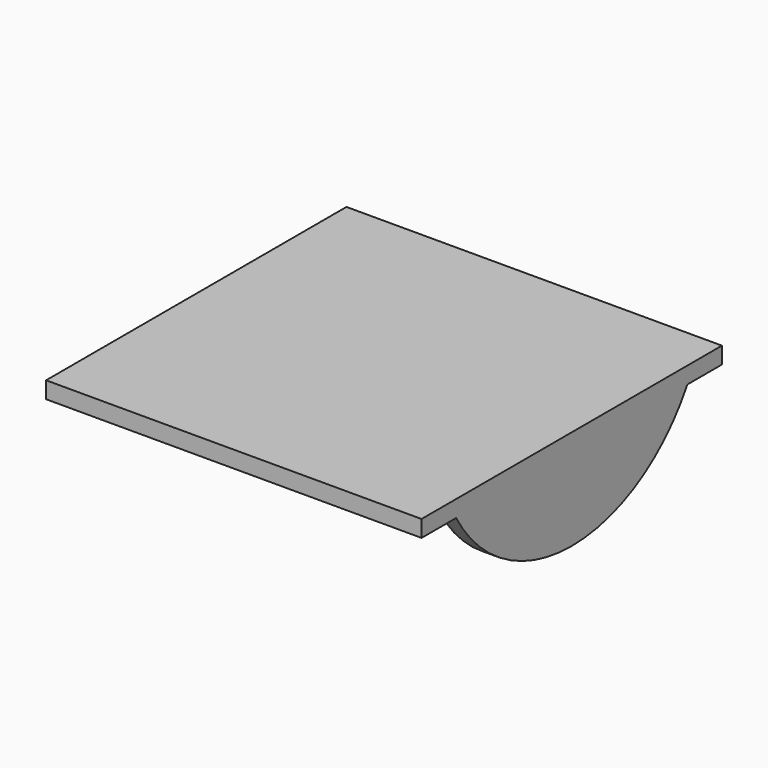
from build123d import *

# Parameters (mm, degrees)
F1_DEPTH = 20
F2_W     = 450
F2_H     = 450
F3_DEPTH = 20
F5_DEPTH = 20


with BuildPart() as f1:
    # F0 (on Right) → F1 (new body)
    with BuildSketch(Plane.YZ):
        with BuildLine():
            Line((173.2050807569, -100), (-173.2050807569, -100))
            ThreePointArc((-173.2050807569, -100), (0, -200), (173.2050807569, -100))
        make_face()
    extrude(amount=-F1_DEPTH)

    # F2 (on face) → F3 (join)
    with BuildSketch(Plane.XY.offset(-100)):
        with Locations((-225, 0)):
            Rectangle(F2_W, F2_H)
        Polygon((0, 225), (-450, 225), (-450, -225), (0, -225), (0, -173.2050807569), (-20, -173.2050807569), (-20, 173.2050807569), (0, 173.2050807569), align=None)
    extrude(amount=F3_DEPTH)

    # F4 (on face) → F5 (join)
    with BuildSketch(Plane(origin=(-450, 0, 0), x_dir=(0, -1, 0), z_dir=(-1, 0, 0))):
        with BuildLine():
            Line((173.2050807569, -100), (-173.2050807569, -100))
            ThreePointArc((-173.2050807569, -100), (0, -200), (173.2050807569, -100))
        make_face()
        with BuildLine():
            Line((173.2050807569, -100), (-173.2050807569, -100))
            ThreePointArc((-173.2050807569, -100), (0, -200), (173.2050807569, -100))
        make_face()
    extrude(amount=-F5_DEPTH)


solid = f1.part
